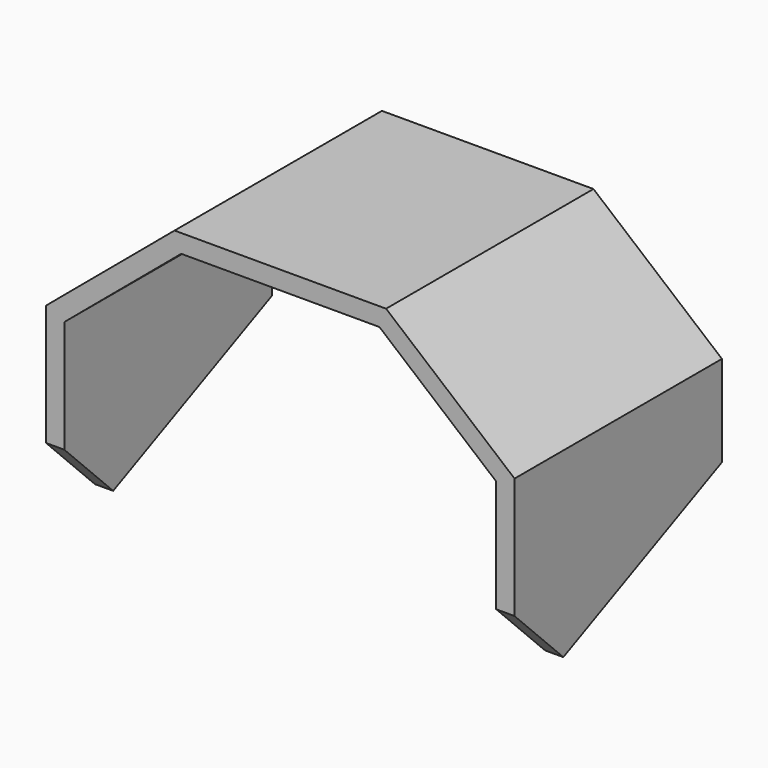
from build123d import *

# Parameters (mm, degrees)
F1_DEPTH = 170
F3_DEPTH = 350
F5_DEPTH = 400


with BuildPart() as f1:
    # F0 (on Front) → F1 (new body)
    with BuildSketch(Plane.XZ):
        Polygon((-141.604444, 18.745599), (-65, 83.02436), (65, 83.02436), (141.604444, 18.745599), (141.604444, -95.024361), (153.604444, -95.024361), (153.604444, 24.341291), (69.367643, 95.02436), (-69.367643, 95.02436), (-153.604444, 24.341291), (-153.604444, -95.024361), (-141.604444, -95.024361), align=None)
    extrude(amount=-F1_DEPTH)

    # F2 (on face) → F3 (cut)
    with BuildSketch(Plane.YZ.offset(153.604444)):
        Polygon((170, -35.341535), (40, -95.024361), (170, -95.024361), align=None)
    extrude(amount=-F3_DEPTH, mode=Mode.SUBTRACT)

    # F4 (on face) → F5 (cut)
    with BuildSketch(Plane.YZ.offset(153.604444)):
        Polygon((0, -95.024361), (40, -95.024361), (0, -55.024361), align=None)
    extrude(amount=-F5_DEPTH, mode=Mode.SUBTRACT)


solid = f1.part
